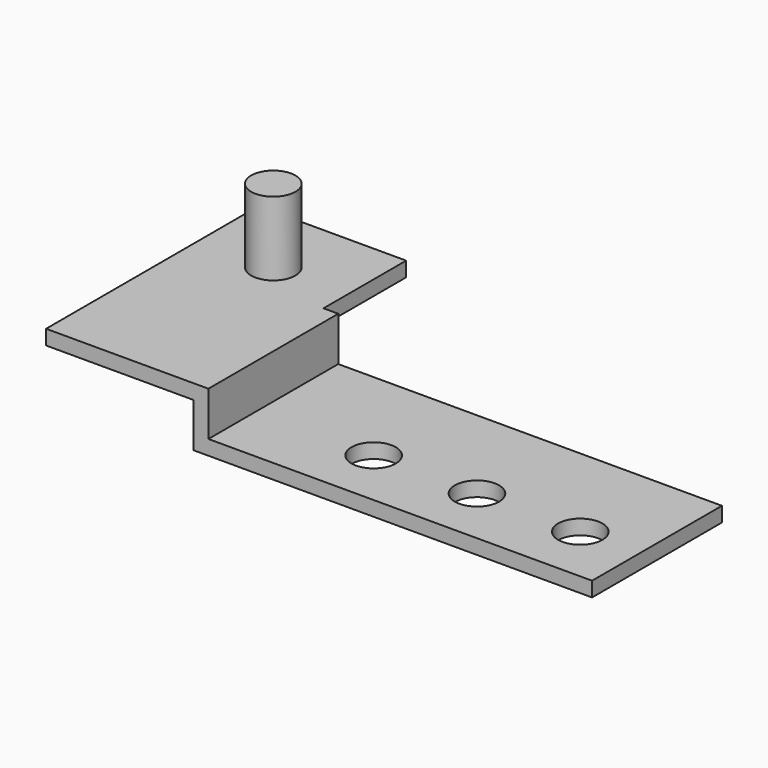
from build123d import *

# Parameters (mm, degrees)
PAD_DEPTH       = 18
SKETCH001_W     = 27
SKETCH001_H     = 7
POCKET_DEPTH    = 10
SKETCH002_W     = 1
SKETCH002_H     = 7
POCKET001_DEPTH = 4.001
SKETCH003_R     = 1.5
POCKET002_DEPTH = 1.001
SKETCH004_R     = 1.5
PAD001_DEPTH    = 6


with BuildPart() as body:
    # Sketch → Pad (new body)
    with BuildSketch(Plane.XZ):
        Polygon((0, 0), (27, 0), (27, 1), (1, 1), (1, 4), (-10, 4), (-10, 3), (0, 3), align=None)
    extrude(amount=PAD_DEPTH)

    # Sketch001 (on Face3 of Pad) → Pocket (cut)
    with BuildSketch(Plane(origin=(0, 0, 1), x_dir=(-1, 0, 0), z_dir=(0, 0, 1))):
        with Locations((-13.5, 14.5)):
            Rectangle(SKETCH001_W, SKETCH001_H)
    extrude(amount=-POCKET_DEPTH, mode=Mode.SUBTRACT)

    # Sketch002 (on Face8 of Pocket) → Pocket001 (cut, through all)
    with BuildSketch(Plane(origin=(0, 0, 4), x_dir=(-1, 0, 0), z_dir=(0, 0, 1))):
        with Locations((-0.5, 14.5)):
            Rectangle(SKETCH002_W, SKETCH002_H)
    extrude(amount=-POCKET001_DEPTH, mode=Mode.SUBTRACT)

    # Sketch003 (on Face7 of Pocket001) → Pocket002 (cut, through all)
    with BuildSketch(Plane(origin=(0, 0, 1), x_dir=(-1, 0, 0), z_dir=(0, 0, 1))):
        with Locations((-23, 4)):
            Circle(SKETCH003_R)
        with Locations((-16, 4)):
            Circle(SKETCH003_R)
        with Locations((-9, 4)):
            Circle(SKETCH003_R)
    extrude(amount=-POCKET002_DEPTH, mode=Mode.SUBTRACT)

    # Sketch004 (on Face14 of Pocket002) → Pad001 (join)
    with BuildSketch(Plane(origin=(0, 0, 3), x_dir=(1, 0, 0), z_dir=(0, 0, -1))):
        with Locations((-5, 13)):
            Circle(SKETCH004_R)
    extrude(amount=-PAD001_DEPTH)


with BuildPart() as part_mirroring:
    # Part__Mirroring: instance of Body
    add(body.part.mirror(Plane(origin=(0, 0, 0), x_dir=(1, 0, 0), z_dir=(0, 1, 0))))


solid = part_mirroring.part
